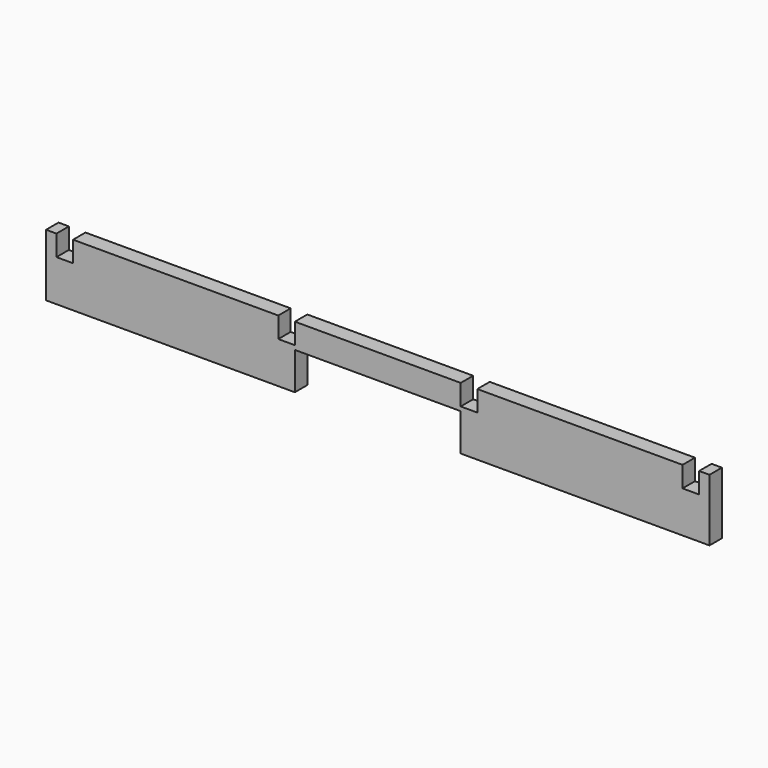
from build123d import *

# Parameters (mm, degrees)
F1_DEPTH = 0.75
F2_W     = 0.8
F2_H     = 1
F3_DEPTH = 0.751
F4_W     = 0.8
F4_H     = 1
F5_DEPTH = 0.751
F6_W     = 0.8
F6_H     = 1
F7_DEPTH = 0.751
F8_W     = 0.8
F8_H     = 1
F9_DEPTH = 0.751


with BuildPart() as f1:
    # F0 (on Front) → F1 (new body)
    with BuildSketch(Plane.XZ):
        Polygon((11.8536589885, 0), (-20.1463410115, 0), (-20.1463410115, -3), (-8.1463410115, -3), (-8.1463410115, -1.2), (-0.1463410115, -1.2), (-0.1463410115, -3), (11.8536589885, -3), align=None)
    extrude(amount=F1_DEPTH)

    # F2 (on face) → F3 (cut, through all)
    with BuildSketch(Plane.XZ.offset(0.75)):
        with Locations((-19.2463410115, -0.5)):
            Rectangle(F2_W, F2_H)
    extrude(amount=-F3_DEPTH, mode=Mode.SUBTRACT)

    # F4 (on face) → F5 (cut, through all)
    with BuildSketch(Plane.XZ.offset(0.75)):
        with Locations((-8.5463410115, -0.5)):
            Rectangle(F4_W, F4_H)
    extrude(amount=-F5_DEPTH, mode=Mode.SUBTRACT)

    # F6 (on face) → F7 (cut, through all)
    with BuildSketch(Plane.XZ.offset(0.75)):
        with Locations((0.2536589885, -0.5)):
            Rectangle(F6_W, F6_H)
    extrude(amount=-F7_DEPTH, mode=Mode.SUBTRACT)

    # F8 (on face) → F9 (cut, through all)
    with BuildSketch(Plane.XZ.offset(0.75)):
        with Locations((10.9536589885, -0.5)):
            Rectangle(F8_W, F8_H)
    extrude(amount=-F9_DEPTH, mode=Mode.SUBTRACT)


solid = f1.part
